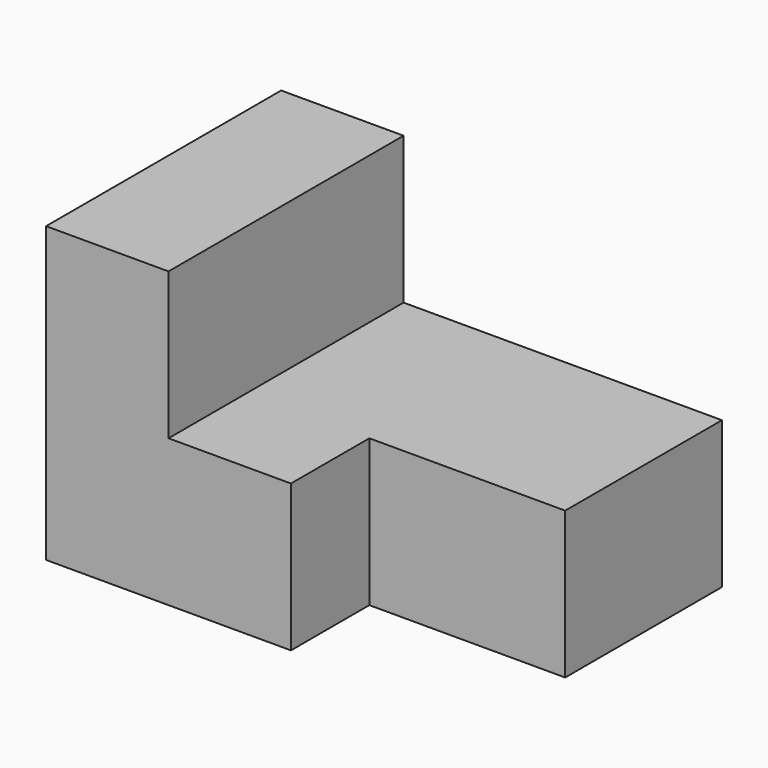
from build123d import *

# Parameters (mm, degrees)
F1_DEPTH = 76.2
F2_W     = 101.6
F2_H     = 76.2
F3_DEPTH = 50.8


with BuildPart() as f1:
    # F0 (on Front) → F1 (new body, symmetric)
    with BuildSketch(Plane.XZ):
        Polygon((-228.6, 0), (0, 0), (0, 76.2), (-165.1, 76.2), (-165.1, 152.4), (-228.6, 152.4), align=None)
    extrude(amount=F1_DEPTH, both=True)

    # F2 (on face) → F3 (cut)
    with BuildSketch(Plane.XZ.offset(76.2)):
        with Locations((-50.8, 38.1)):
            Rectangle(F2_W, F2_H)
    extrude(amount=-F3_DEPTH, mode=Mode.SUBTRACT)


solid = f1.part
